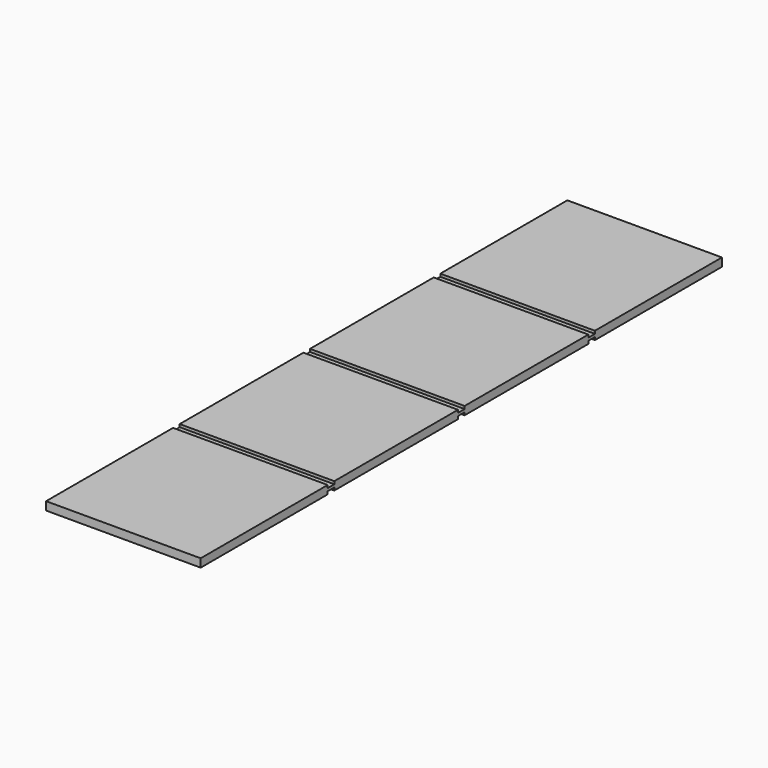
from build123d import *

# Parameters (mm, degrees)
F1_DEPTH = 355.6


with BuildPart() as f1:
    # F0 (on Right) → F1 (new body)
    with BuildSketch(Plane.YZ):
        Polygon((749.3, -9.525), (749.3, 9.525), (384.175, 9.525), (384.175, 3.175), (365.125, 3.175), (365.125, 9.525), (9.525, 9.525), (9.525, 3.175), (0, 3.175), (-9.525, 3.175), (-9.525, 9.525), (-365.125, 9.525), (-365.125, 3.175), (-384.175, 3.175), (-384.175, 9.525), (-749.3, 9.525), (-749.3, -9.525), (-384.175, -9.525), (-384.175, -3.175), (-365.125, -3.175), (-365.125, -9.525), (-9.525, -9.525), (-9.525, -3.175), (0, -3.175), (9.525, -3.175), (9.525, -9.525), (365.125, -9.525), (365.125, -3.175), (384.175, -3.175), (384.175, -9.525), align=None)
    extrude(amount=F1_DEPTH)


solid = f1.part
